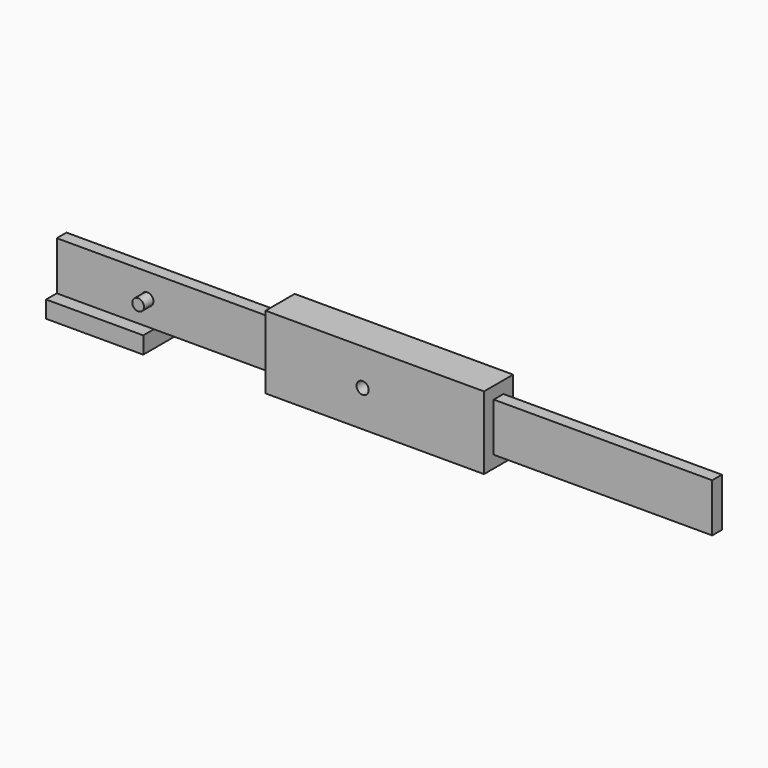
from build123d import *

# Parameters (mm, degrees)
F1_DEPTH  = 25.4
F2_W      = 76.2
F2_H      = 6.35
F3_DEPTH  = 25.4
F5_DEPTH  = 25.4
F6_W      = 114.3
F6_H      = 19.05
F7_DEPTH  = 6.35
F8_W      = 114.3
F8_H      = 19.05
F9_DEPTH  = 6.35
F10_R     = 3.175
F11_DEPTH = 25.4
F12_W     = 50.839655
F12_H     = 10.16
F13_DEPTH = 8.89
F14_R     = 3.048
F15_DEPTH = 18.796


with BuildPart() as f1:
    # F0 (on Top) → F1 (new body)
    with BuildSketch(Plane.XY):
        Polygon((-60.372166, 3.175), (-60.372166, 0), (-60.372166, -3.175), (53.927834, -3.175), (53.927834, -9.525), (168.227834, -9.525), (168.227834, -3.175), (282.527834, -3.175), (282.527834, 3.175), (168.227834, 3.175), (168.227834, 9.525), (53.927834, 9.525), (53.927834, 3.175), align=None)
    extrude(amount=F1_DEPTH)

    # F2 (on face) → F3 (cut)
    with BuildSketch(Plane.XY.offset(25.4)):
        with Locations((111.077834, 0)):
            Rectangle(F2_W, F2_H)
    extrude(amount=-F3_DEPTH, mode=Mode.SUBTRACT)

    # F4 (on face) → F5 (cut)
    with BuildSketch(Plane.XZ.offset(9.525)):
        with BuildLine():
            ThreePointArc((107.902834, 12.7), (104.727834, 15.875), (101.552834, 12.7))
            ThreePointArc((101.552834, 12.7), (104.727834, 9.525), (107.902834, 12.7))
        make_face()
    extrude(amount=-F5_DEPTH, mode=Mode.SUBTRACT)

    # F6 (on face) → F7 (join)
    with BuildSketch(Plane.XY.offset(25.4)):
        with Locations((111.077834, 0)):
            Rectangle(F6_W, F6_H)
    extrude(amount=F7_DEPTH)

    # F8 (on face) → F9 (join)
    with BuildSketch(Plane(origin=(0, 0, 0), x_dir=(1, 0, 0), z_dir=(0, 0, -1))):
        with Locations((111.077834, 0)):
            Rectangle(F8_W, F8_H)
    extrude(amount=F9_DEPTH)

    # F10 (on face) → F11 (cut)
    with BuildSketch(Plane.XZ.offset(3.175)):
        with Locations((-12.947108, 12.7)):
            Circle(F10_R)
    extrude(amount=-F11_DEPTH, mode=Mode.SUBTRACT)

    # F12 (on face) → F13 (join)
    with BuildSketch(Plane(origin=(0, 0, 0), x_dir=(1, 0, 0), z_dir=(0, 0, -1))):
        with Locations((-34.952338, 5.08)):
            Rectangle(F12_W, F12_H)
        with Locations((-34.952338, -5.08)):
            Rectangle(F12_W, F12_H)
    extrude(amount=F13_DEPTH)


with BuildPart() as f15:
    # F14 (on face) → F15 (new body)
    with BuildSketch(Plane(origin=(0, 9.525, 0), x_dir=(-1, 0, 0), z_dir=(0, 1, 0))):
        with Locations((12.930862, 12.644155)):
            Circle(F14_R)
    extrude(amount=-F15_DEPTH)


solid = Compound([f1.part, f15.part])
